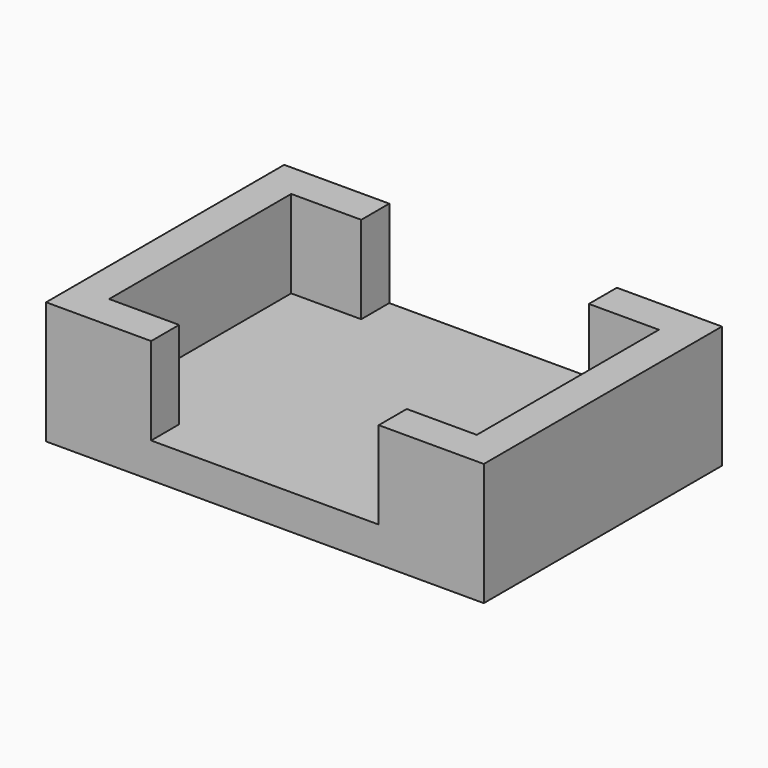
from build123d import *

# Parameters (mm, degrees)
F0_W     = 12.5
F0_H     = 8.5
F1_DEPTH = 1
F3_DEPTH = 2.5


with BuildPart() as f1:
    # F0 (on Top) → F1 (new body)
    with BuildSketch(Plane.XY):
        Rectangle(F0_W, F0_H)
    extrude(amount=F1_DEPTH)

    # F2 (on face) → F3 (join)
    with BuildSketch(Plane.XY.offset(1)):
        Polygon((-5.25, -3.25), (-5.25, 3.25), (-3.25, 3.25), (-3.25, 4.25), (-6.25, 4.25), (-6.25, -4.25), (-3.25, -4.25), (-3.25, -3.25), align=None)
        Polygon((3.25, 4.25), (3.25, 3.25), (5.25, 3.25), (5.25, -3.25), (3.25, -3.25), (3.25, -4.25), (6.25, -4.25), (6.25, 4.25), align=None)
    extrude(amount=F3_DEPTH)


solid = f1.part
